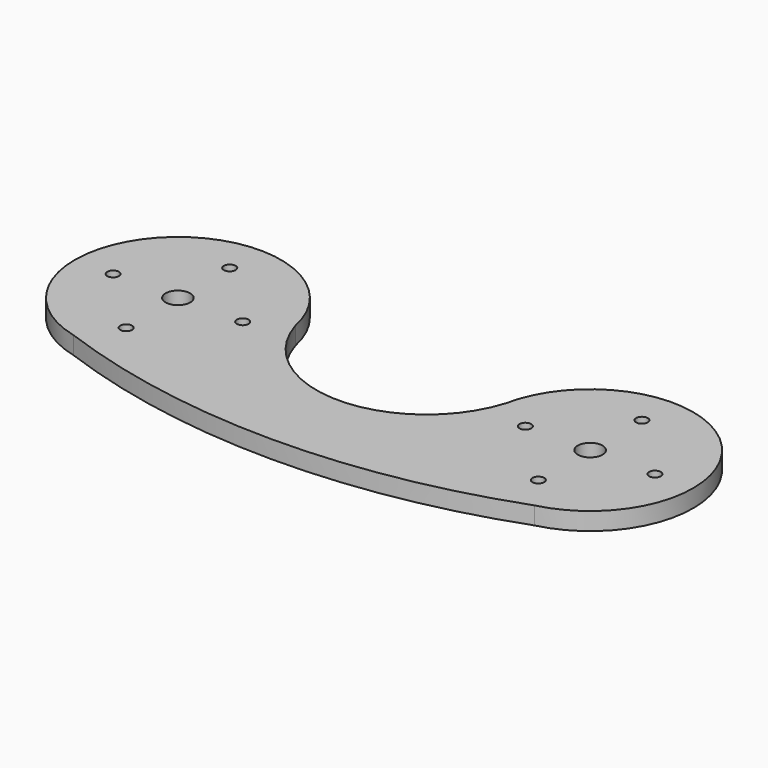
from build123d import *

# Parameters (mm, degrees)
PAD_DEPTH     = 3
SKETCH001_R   = 1
SKETCH001_R_2 = 2.1
POCKET_DEPTH  = 3


with BuildPart() as part:
    # Sketch → Pad (new body)
    with BuildSketch(Plane.XY):
        with BuildLine():
            ThreePointArc((-39.153312, -17), (0, -23.9385), (39.153312, -17))
            ThreePointArc((39.153312, -17), (47.135393, 12.608816), (17.853572, 3.5))
            ThreePointArc((-17.853572, 3.5), (0, -9.681542), (17.853572, 3.5))
            ThreePointArc((-17.853572, 3.5), (-47.135393, 12.608816), (-39.153312, -17))
        make_face()
    extrude(amount=PAD_DEPTH)

    # Sketch001 (on Face6 of Pad) → Pocket (cut)
    with BuildSketch(Plane.XY.offset(3)):
        with Locations((-35, 11)):
            Circle(SKETCH001_R)
        with Locations((-35, -11)):
            Circle(SKETCH001_R)
        with Locations((-46, 0)):
            Circle(SKETCH001_R)
        with Locations((-24, 0)):
            Circle(SKETCH001_R)
        with Locations((-35, 0)):
            Circle(SKETCH001_R_2)
    pocket = extrude(amount=-POCKET_DEPTH, mode=Mode.SUBTRACT)

    # Mirrored: Pocket across Sketch001 V_Axis
    add(pocket.mirror(Plane(origin=(0, 0, 3), x_dir=(0, 0, 1), z_dir=(1, 0, 0))), mode=Mode.SUBTRACT)


solid = part.part
